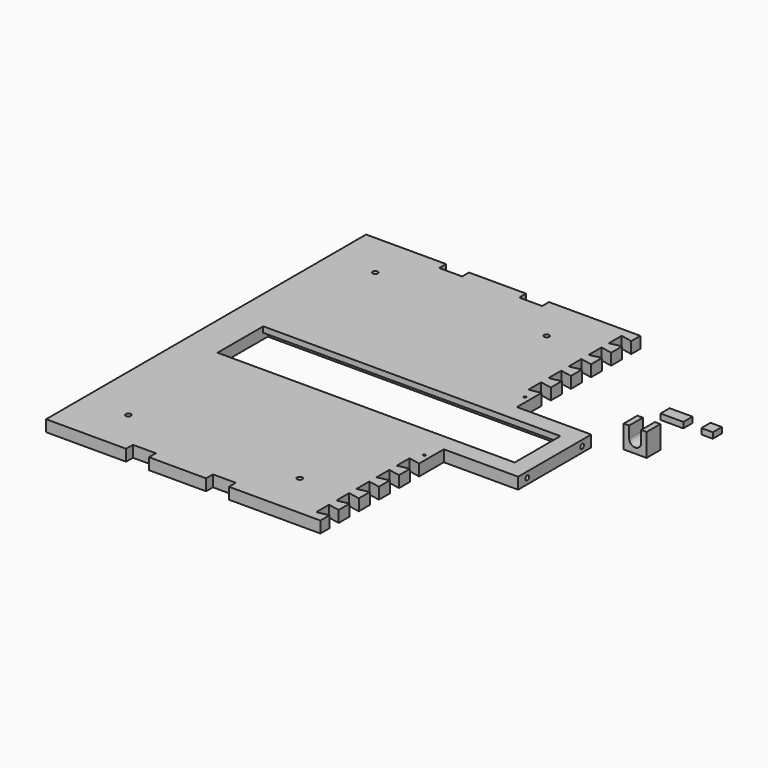
from build123d import *

# Parameters (mm, degrees)
F1_DEPTH  = 10
F2_W      = 260
F2_H      = 50
F3_DEPTH  = 10.001
F4_W      = 260
F4_H      = 5
F5_DEPTH  = 5
F6_W      = 260
F6_H      = 5
F7_DEPTH  = 5
F8_R      = 2.25
F9_DEPTH  = 10.001
F10_R     = 4.25
F10_R_2   = 2
F11_DEPTH = 5
F12_R     = 1
F13_DEPTH = 10.001
F14_W     = 20
F14_H     = 10
F15_DEPTH = 5
F14_W_2   = 10
F16_W     = 20
F16_H     = 15
F17_DEPTH = 20
F19_DEPTH = 123.4470965771
F20_R     = 2
F21_DEPTH = 10
F23_DEPTH = 10.001


with BuildPart() as f1:
    # F0 (on Top) → F1 (new body)
    with BuildSketch(Plane.XY):
        Polygon((-153.2117038436, 173.0387948453), (-223.2117038436, 173.0387948453), (-223.2117038436, -176.9612051547), (-153.2117038436, -176.9612051547), (-153.2117038436, -169.4612051547), (-133.2117038436, -169.4612051547), (-133.2117038436, -176.9612051547), (-83.2117038436, -176.9612051547), (-83.2117038436, -169.4612051547), (-63.2117038436, -169.4612051547), (-63.2117038436, -176.9612051547), (16.7882961564, -176.9612051547), (16.7882961564, -41.9612051547), (81.7882961564, -41.9612051547), (81.7882961564, 38.0387948453), (16.7882961564, 38.0387948453), (16.7882961564, 173.0387948453), (-63.2117038436, 173.0387948453), (-63.2117038436, 165.5387948453), (-83.2117038436, 165.5387948453), (-83.2117038436, 173.0387948453), (-133.2117038436, 173.0387948453), (-133.2117038436, 165.5387948453), (-153.2117038436, 165.5387948453), align=None)
    extrude(amount=F1_DEPTH)

    # F2 (on face) → F3 (cut, through all)
    with BuildSketch(Plane.XY.offset(10)):
        with Locations((-63.2117038436, -1.9612051547)):
            Rectangle(F2_W, F2_H)
    extrude(amount=-F3_DEPTH, mode=Mode.SUBTRACT)

    # F4 (on face) → F5 (cut)
    with BuildSketch(Plane.XZ.offset(-23.0387948453)):
        with Locations((-63.2117038436, 2.5)):
            Rectangle(F4_W, F4_H)
    extrude(amount=-F5_DEPTH, mode=Mode.SUBTRACT)

    # F6 (on face) → F7 (cut)
    with BuildSketch(Plane(origin=(0, -26.9612051547, 0), x_dir=(-1, 0, 0), z_dir=(0, 1, 0))):
        with Locations((63.2117038436, 2.5)):
            Rectangle(F6_W, F6_H)
    extrude(amount=-F7_DEPTH, mode=Mode.SUBTRACT)

    # F8 (on face) → F9 (cut, through all)
    with BuildSketch(Plane.XY.offset(10)):
        with Locations((-183.2117038436, 133.0387948453)):
            Circle(F8_R)
        with Locations((-33.2117038436, 133.0387948453)):
            Circle(F8_R)
        with Locations((-183.2117038436, -136.9612051547)):
            Circle(F8_R)
        with Locations((-33.2117038436, -136.9612051547)):
            Circle(F8_R)
    extrude(amount=-F9_DEPTH, mode=Mode.SUBTRACT)

    # F10 (on face) → F11 (cut)
    with BuildSketch(Plane(origin=(0, 0, 0), x_dir=(1, 0, 0), z_dir=(0, 0, -1))):
        with Locations((-63.2117038436, 136.9612051547)):
            Circle(F10_R)
        with Locations((-218.2117038436, 151.9612051547)):
            Circle(F10_R_2)
        with Locations((-218.2117038436, 51.9612051547)):
            Circle(F10_R_2)
        with Locations((-218.2117038436, -48.0387948453)):
            Circle(F10_R_2)
        with Locations((-218.2117038436, -148.0387948453)):
            Circle(F10_R_2)
    extrude(amount=-F11_DEPTH, mode=Mode.SUBTRACT)

    # F12 (on face) → F13 (cut, through all)
    with BuildSketch(Plane.XY.offset(10)):
        with Locations((11.7882961564, -56.9612051547)):
            Circle(F12_R)
        with Locations((11.7882961564, 53.0387948453)):
            Circle(F12_R)
    extrude(amount=-F13_DEPTH, mode=Mode.SUBTRACT)

    # F20 (on face) → F21 (cut)
    with BuildSketch(Plane.YZ.offset(81.7882961564)):
        with Locations((-31.9612051547, 5)):
            Circle(F20_R)
        with Locations((28.0387948453, 5)):
            Circle(F20_R)
    extrude(amount=-F21_DEPTH, mode=Mode.SUBTRACT)

    # F22 (on face) → F23 (cut, through all)
    with BuildSketch(Plane.XY.offset(10)):
        Polygon((6.7882961564, -168.9612051547), (16.7882961564, -166.9612051547), (16.7882961564, -156.9612051547), (6.7882961564, -154.9612051547), align=None)
        Polygon((16.7882961564, 153.0387948453), (16.7882961564, 163.0387948453), (6.7882961564, 165.0387948453), (6.7882961564, 151.0387948453), align=None)
        Polygon((6.7882961564, 143.0387948453), (6.7882961564, 129.0387948453), (16.7882961564, 131.0387948453), (16.7882961564, 141.0387948453), align=None)
        Polygon((6.7882961564, 121.0387948453), (6.7882961564, 107.0387948453), (16.7882961564, 109.0387948453), (16.7882961564, 119.0387948453), align=None)
        Polygon((6.7882961564, 99.0387948453), (6.7882961564, 85.0387948453), (16.7882961564, 87.0387948453), (16.7882961564, 97.0387948453), align=None)
        Polygon((6.7882961564, -146.9612051547), (16.7882961564, -144.9612051547), (16.7882961564, -134.9612051547), (6.7882961564, -132.9612051547), align=None)
        Polygon((6.7882961564, -124.9612051547), (16.7882961564, -122.9612051547), (16.7882961564, -112.9612051547), (6.7882961564, -110.9612051547), align=None)
        Polygon((6.7882961564, -102.9612051547), (16.7882961564, -100.9612051547), (16.7882961564, -90.9612051547), (6.7882961564, -88.9612051547), align=None)
        Polygon((6.7882961564, 77.0387948453), (6.7882961564, 63.0387948453), (16.7882961564, 65.0387948453), (16.7882961564, 75.0387948453), align=None)
        Polygon((6.7882961564, -80.9612051547), (16.7882961564, -78.9612051547), (16.7882961564, -68.9612051547), (6.7882961564, -66.9612051547), align=None)
    extrude(amount=-F23_DEPTH, mode=Mode.SUBTRACT)


with BuildPart() as f15:
    # F14 (on Top) → F15 (new body)
    with BuildSketch(Plane.XY):
        with Locations((103.2652358298, 104.4041585319)):
            Rectangle(F14_W, F14_H)
    extrude(amount=F15_DEPTH)


with BuildPart() as f15b:
    # F14 (on Top) → F15, piece 2 (new body)
    with BuildSketch(Plane.XY):
        with Locations((133.5593304069, 104.9923974879)):
            Rectangle(F14_W_2, F14_H)
    extrude(amount=F15_DEPTH)


with BuildPart() as f17:
    # F16 (on Top) → F17 (new body)
    with BuildSketch(Plane.XY):
        with Locations((110.9734810889, 57.0926982683)):
            Rectangle(F16_W, F16_H)
    extrude(amount=F17_DEPTH)

    # F18 (on face) → F19 (cut, through all)
    with BuildSketch(Plane.XZ.offset(-49.5926982683)):
        with BuildLine():
            Line((105.7240052134, 20), (105.7240052134, 10.0741824286))
            ThreePointArc((105.7240052134, 10.0741824286), (110.9363889488, 4.7501310328), (116.2234810889, 10))
            Line((116.2234810889, 10), (116.2234810889, 20))
            Line((116.2234810889, 20), (105.7240052134, 20))
        make_face()
    extrude(amount=-F19_DEPTH, mode=Mode.SUBTRACT)


solid = Compound([f1.part, f15.part, f15b.part, f17.part])
